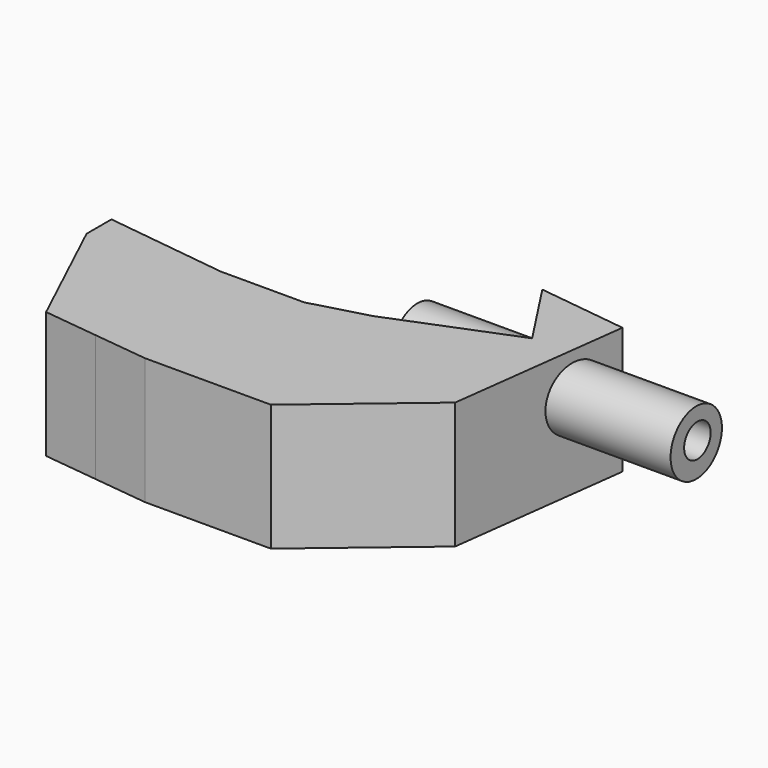
from build123d import *

# Parameters (mm, degrees)
F1_DEPTH = 25
F2_R     = 6.331158
F3_DEPTH = 55
F4_R     = 4.545947
F5_DEPTH = 51.663236
F6_R     = 3.2686
F7_DEPTH = 55.001


with BuildPart() as f1:
    # F0 (on Top) → F1 (new body)
    with BuildSketch(Plane.XY):
        Polygon((23.736702, 9.494681), (0, 0), (-11.170213, -3.071809), (-27.646277, -3.071809), (-51.662236, 0), (-51.662236, -6.143617), (-40.212769, -30.438831), (-29.461436, -31.695481), (-18.710107, -32.95213), (6.143617, -32.95213), (27.872912, -14.656438), (32.393619, 20.94415), (14.800533, 23.178192), align=None)
    extrude(amount=F1_DEPTH)

    # F2 (on Right) → F3 (join)
    with BuildSketch(Plane.YZ):
        with Locations((10.890958, 16.476065)):
            Circle(F2_R)
    extrude(amount=F3_DEPTH)

    # F4 (on Right) → F5 (cut, through all)
    with BuildSketch(Plane.YZ):
        with Locations((10.890957, 16.75532)):
            Circle(F4_R)
    extrude(amount=-F5_DEPTH, mode=Mode.SUBTRACT)

    # F6 (on Right) → F7 (cut, through all)
    with BuildSketch(Plane.YZ):
        with Locations((11.170213, 16.75532)):
            Circle(F6_R)
    extrude(amount=F7_DEPTH, mode=Mode.SUBTRACT)


solid = f1.part
